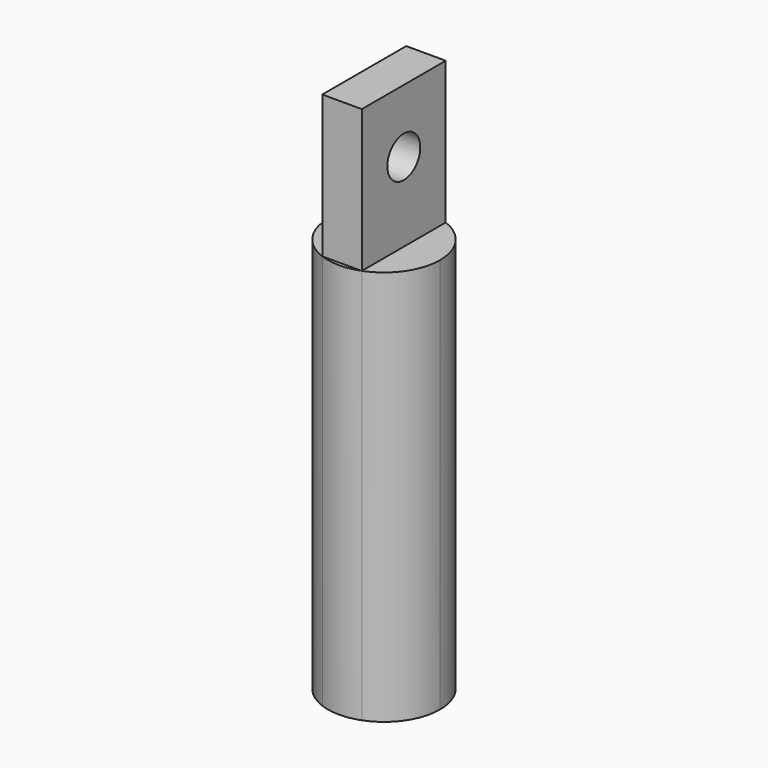
from build123d import *

# Parameters (mm, degrees)
F1_DEPTH = 50
F0_W     = 5
F0_H     = 13.255382
F2_DEPTH = 68
F3_R     = 2.6
F4_DEPTH = 9.584522
F5_R     = 5.083522
F6_DEPTH = 48


with BuildPart() as f1:
    # F0 (on Top) → F1 (new body)
    with BuildSketch(Plane.XY):
        with BuildLine():
            ThreePointArc((2.5, -6.627691), (5.826023, -4.029111), (7.083522, 0))
            ThreePointArc((7.083522, 0), (5.826023, 4.029111), (2.5, 6.627691))
            Line((2.5, 6.627691), (2.5, -6.627691))
        make_face()
        with BuildLine():
            Line((-2.5, 6.627691), (2.5, 6.627691))
            ThreePointArc((2.5, 6.627691), (0, 7.083522), (-2.5, 6.627691))
        make_face()
        with BuildLine():
            ThreePointArc((-2.5, -6.627691), (0, -7.083522), (2.5, -6.627691))
            Line((2.5, -6.627691), (-2.5, -6.627691))
        make_face()
        with BuildLine():
            Line((-2.5, -6.627691), (-2.5, 6.627691))
            ThreePointArc((-2.5, 6.627691), (-7.083522, 0), (-2.5, -6.627691))
        make_face()
    extrude(amount=F1_DEPTH)

    # F0 (on Top) → F2 (join)
    with BuildSketch(Plane.XY):
        Rectangle(F0_W, F0_H)
    extrude(amount=F2_DEPTH)

    # F3 (on face) → F4 (cut, through all)
    with BuildSketch(Plane.YZ.offset(2.5)):
        with Locations((0, 60)):
            Circle(F3_R)
    extrude(amount=-F4_DEPTH, mode=Mode.SUBTRACT)

    # F5 (on face) → F6 (cut)
    with BuildSketch(Plane(origin=(0, 0, 0), x_dir=(1, 0, 0), z_dir=(0, 0, -1))):
        Circle(F5_R)
    extrude(amount=-F6_DEPTH, mode=Mode.SUBTRACT)


solid = f1.part
